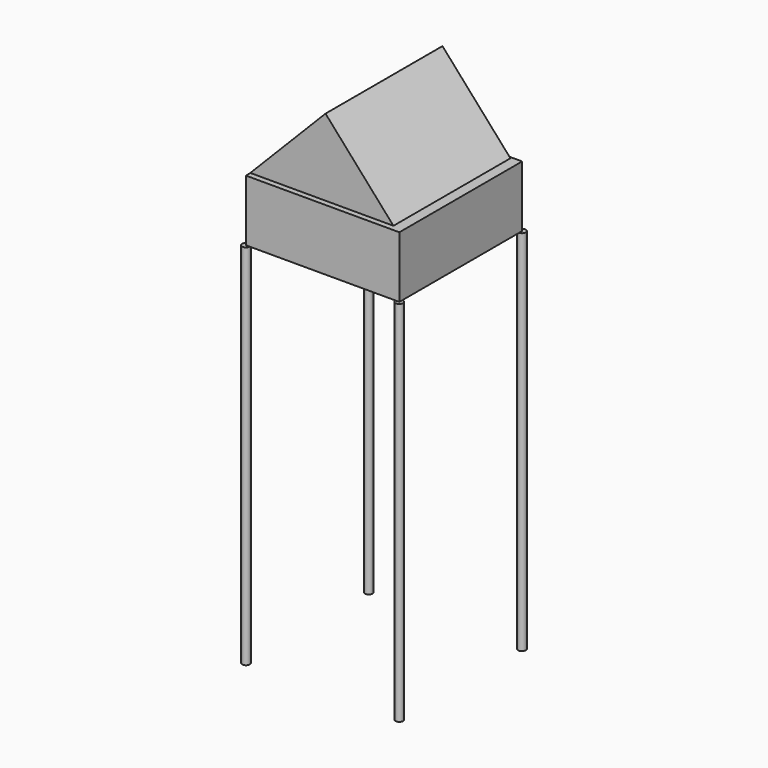
from build123d import *

# Parameters (mm, degrees)
F0_R     = 63.5
F1_DEPTH = 6096
F2_W     = 2542.919774
F2_H     = 2542.972822
F3_DEPTH = 1016
F5_DEPTH = 1211.34666


with BuildPart() as f1:
    # F0 (on Top) → F1 (new body)
    with BuildSketch(Plane.XY):
        with Locations((-1270, 1270)):
            Circle(F0_R)
        with Locations((1270, 1270)):
            Circle(F0_R)
        with Locations((-1270, -1270)):
            Circle(F0_R)
        with Locations((1270, -1270)):
            Circle(F0_R)
    extrude(amount=F1_DEPTH)


with BuildPart() as f3:
    # F2 (on face) → F3 (new body)
    with BuildSketch(Plane.XY.offset(6096)):
        with Locations((1.459887, -1.486411)):
            Rectangle(F2_W, F2_H)
    extrude(amount=F3_DEPTH)


with BuildPart() as f5:
    # F4 (on Front) → F5 (new body, symmetric)
    with BuildSketch(Plane.XZ):
        Polygon((-1246.52644, 7133.54063), (1125.491619, 7133.54063), (0, 8404.371262), align=None)
    extrude(amount=F5_DEPTH, both=True)


solid = Compound([f1.part, f3.part, f5.part])
